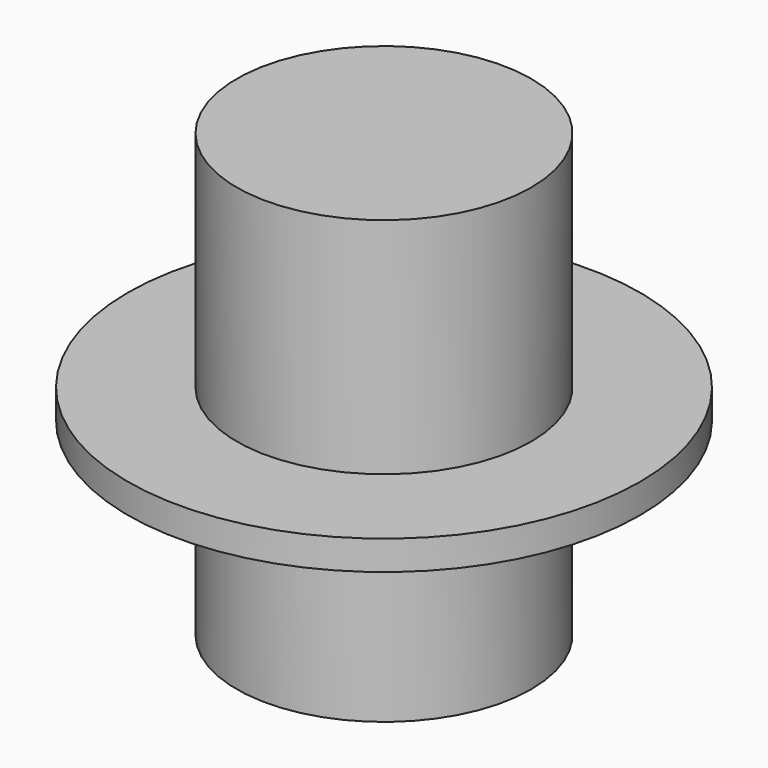
from build123d import *

# Parameters (mm, degrees)
CIRCLE001_R    = 8.697725
EXTRUDE_DEPTH  = 1
CYLINDER_R     = 5
CYLINDER_DEPTH = 15


with BuildPart() as obj1:
    # Circle001 → Extrude (new body)
    with BuildSketch(Plane.XY.offset(57.640399)):
        Circle(CIRCLE001_R)
    extrude(amount=EXTRUDE_DEPTH)


with BuildPart() as obj1_1:
    # Extrude placement: moved
    add(obj1.part.moved(Location((0, 0, -8.594981))))


with BuildPart() as obj2:
    # Cylinder → Cylinder (new body)
    with BuildSketch(Plane.XY.offset(42.640399)):
        Circle(CYLINDER_R)
    extrude(amount=CYLINDER_DEPTH)

    # Fusion002: union obj1
    add(obj1_1.part)


solid = obj2.part
